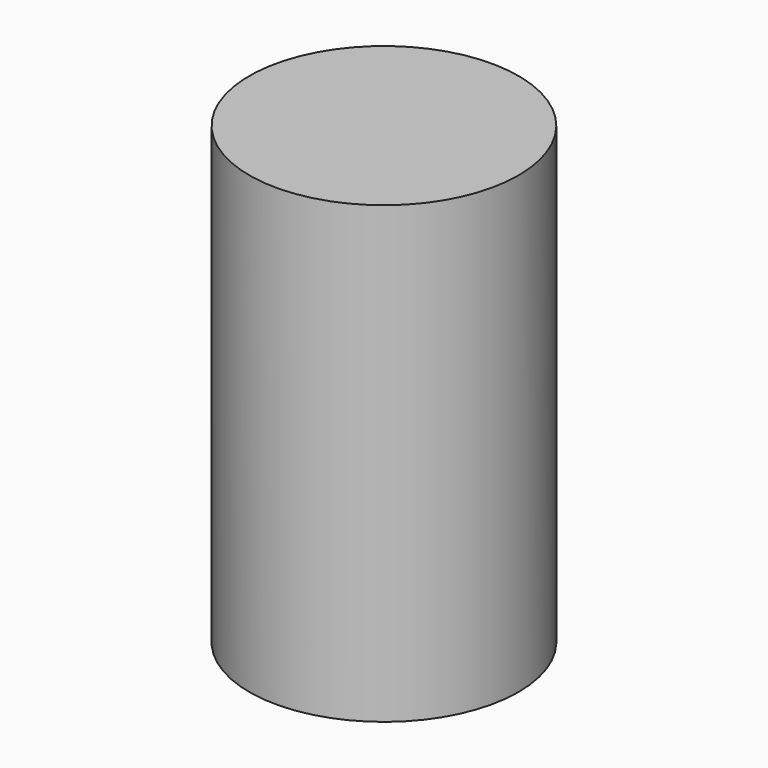
from build123d import *

# Parameters (mm, degrees)
F0_R     = 53.5223969486
F1_DEPTH = 113.03
F2_DEPTH = 42.418
F3_R     = 36.0053843075
F4_DEPTH = 25.4
F5_DEPTH = 25.4


with BuildPart() as f1:
    # F0 (on Top) → F1 (new body)
    with BuildSketch(Plane.XY):
        Circle(F0_R)
    extrude(amount=F1_DEPTH)

    # F2 (add): a face of the model
    f2_faces = [f1.faces().sort_by_distance(p)[0] for p in [
        (0, 0, 113.03),
    ]]
    extrude(f2_faces, amount=F2_DEPTH)

    # F3 (on face) → F4 (join)
    with BuildSketch(Plane.XY.offset(155.448)):
        Circle(F3_R)
    extrude(amount=F4_DEPTH)

    # F5 (add): a face of the model
    f5_faces = [f1.faces().sort_by_distance(p)[0] for p in [
        (-52.0085549555, 0, 155.448),
    ]]
    extrude(f5_faces, amount=F5_DEPTH)


solid = f1.part
